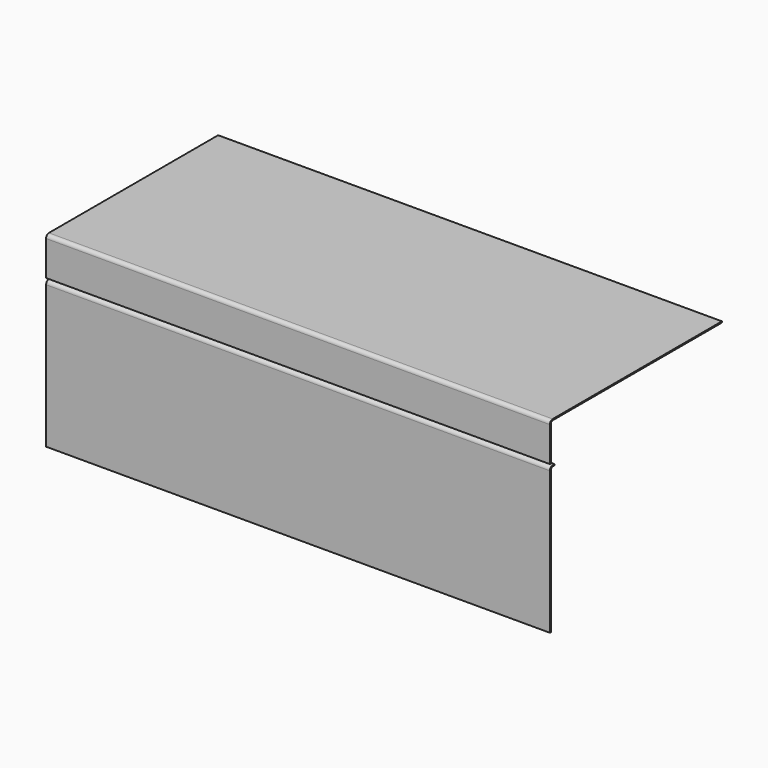
from build123d import *

# Parameters (mm, degrees)
F1_DEPTH = 678.65625


with BuildPart() as f1:
    # F0 (on Right) → F1 (new body, symmetric)
    with BuildSketch(Plane.YZ):
        with BuildLine():
            Line((579.4375, -3.175), (579.4375, 0))
            Line((579.4375, 0), (9.525, 0))
            ThreePointArc((9.525, 0), (2.789808, -2.789808), (0, -9.525))
            Line((0, -9.525), (0, -103.1875))
            Line((0, -103.1875), (3.175, -103.1875))
            Line((3.175, -103.1875), (3.175, -9.525))
            ThreePointArc((3.175, -9.525), (5.034872, -5.034872), (9.525, -3.175))
            Line((9.525, -3.175), (579.4375, -3.175))
        make_face()
        with BuildLine():
            Line((0, -503.2375), (3.175, -503.2375))
            Line((3.175, -503.2375), (3.175, -119.0625))
            ThreePointArc((3.175, -119.0625), (5.034872, -114.572372), (9.525, -112.7125))
            Line((9.525, -112.7125), (15.875, -112.7125))
            Line((15.875, -112.7125), (15.875, -109.5375))
            Line((15.875, -109.5375), (9.525, -109.5375))
            ThreePointArc((9.525, -109.5375), (2.789808, -112.327308), (0, -119.0625))
            Line((0, -119.0625), (0, -503.2375))
        make_face()
    extrude(amount=F1_DEPTH, both=True)


solid = f1.part
